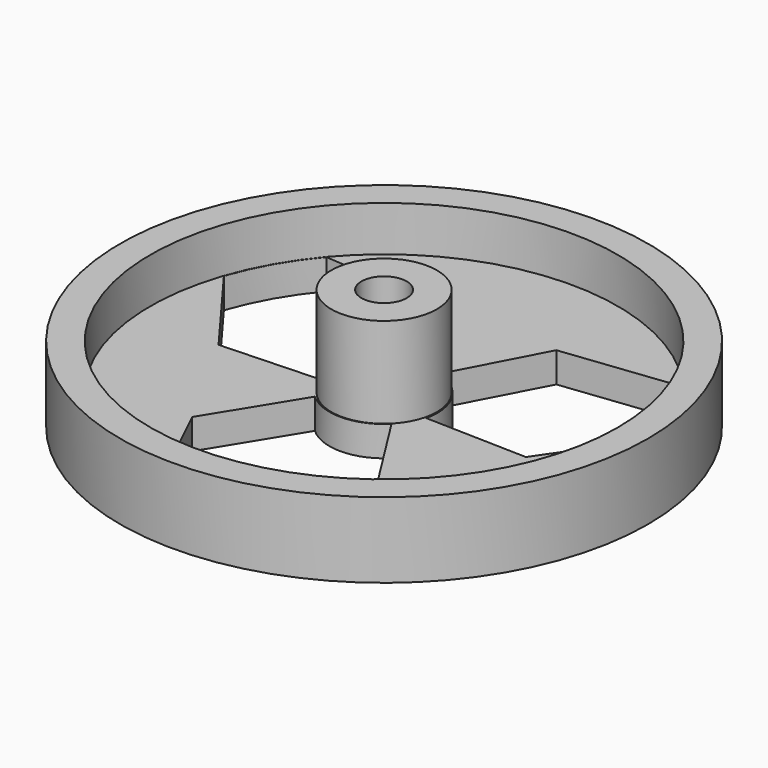
from build123d import *

# Parameters (mm, degrees)
F0_R     = 17.5
F1_DEPTH = 5
F2_R     = 15.5
F3_DEPTH = 3
F4_R     = 3.5
F4_R_2   = 1.5
F5_DEPTH = 6
F8_DEPTH = 25


with BuildPart() as f1:
    # F0 (on Top) → F1 (new body)
    with BuildSketch(Plane.XY):
        Circle(F0_R)
    extrude(amount=F1_DEPTH)

    # F2 (on face) → F3 (cut)
    with BuildSketch(Plane.XY.offset(5)):
        Circle(F2_R)
    extrude(amount=-F3_DEPTH, mode=Mode.SUBTRACT)

    # F4 (on face) → F5 (join)
    with BuildSketch(Plane.XY.offset(2)):
        Circle(F4_R)
        Circle(F4_R_2, mode=Mode.SUBTRACT)
    extrude(amount=F5_DEPTH)

    # F7 (on face) → F8 (cut)
    with BuildSketch(Plane(origin=(0, 0, 0), x_dir=(1, 0, 0), z_dir=(0, 0, -1))):
        with BuildLine():
            ThreePointArc((-2.510914, 2.59477), (0.012059, 3.554075), (2.502232, 2.512588))
            Line((2.502232, 2.512588), (6.036088, 8.101013))
            Line((6.036088, 8.101013), (2.972662, 15.185164))
            ThreePointArc((2.972662, 15.185164), (0.115894, 15.47105), (-2.744629, 15.22557))
            Line((-2.744629, 15.22557), (-6.044772, 8.347561))
            Line((-6.044772, 8.347561), (-2.510914, 2.59477))
        make_face()
        with BuildLine():
            Line((-3.427081, 0.910703), (-10.033727, 1.1769))
            Line((-10.033727, 1.1769), (-14.637069, -5.018181))
            ThreePointArc((-14.637069, -5.018181), (-13.456269, -7.635157), (-11.813416, -9.989703))
            Line((-11.813416, -9.989703), (-4.206814, -9.408706))
            Line((-4.206814, -9.408706), (-0.99168, -3.471901))
            ThreePointArc((-0.99168, -3.471901), (-3.083949, -1.766595), (-3.427081, 0.910703))
        make_face()
        with BuildLine():
            Line((0.924849, -3.423291), (3.997639, -9.277912))
            Line((3.997639, -9.277912), (11.664407, -10.166983))
            ThreePointArc((11.664407, -10.166983), (13.340375, -7.835892), (14.558044, -5.235867))
            Line((14.558044, -5.235867), (10.251585, 1.061145))
            Line((10.251585, 1.061145), (3.502594, 0.87713))
            ThreePointArc((3.502594, 0.87713), (3.07189, -1.787481), (0.924849, -3.423291))
        make_face()
    extrude(amount=-F8_DEPTH, mode=Mode.SUBTRACT)


solid = f1.part
